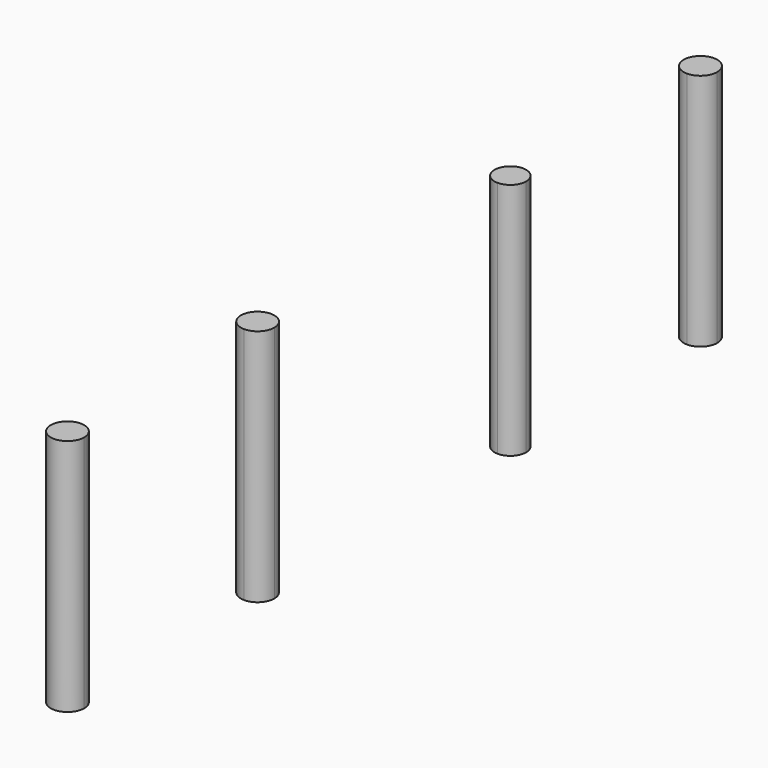
from build123d import *

# Parameters (mm, degrees)
F1_DEPTH = 25.4


with BuildPart() as f1:
    # F0 (on Top) → F1 (new body)
    with BuildSketch(Plane.XY):
        with BuildLine():
            ThreePointArc((0, 71.579503), (-1.785938, 69.793566), (0, 68.007628))
            Line((0, 68.007628), (0, 69.793566))
            Line((0, 69.793566), (0, 71.579503))
        make_face()
        with BuildLine():
            Line((0, 69.793566), (0, 68.007628))
            ThreePointArc((0, 68.007628), (1.262849, 68.530717), (1.785938, 69.793566))
            ThreePointArc((1.785938, 69.793566), (1.262849, 71.056414), (0, 71.579503))
            Line((0, 71.579503), (0, 69.793566))
        make_face()
        with BuildLine():
            ThreePointArc((0, 46.167657), (-1.682692, 44.484966), (0, 42.802274))
            Line((0, 42.802274), (0, 44.484966))
            Line((0, 44.484966), (0, 46.167657))
        make_face()
        with BuildLine():
            Line((0, 44.484966), (0, 42.802274))
            ThreePointArc((0, 42.802274), (1.189843, 43.295123), (1.682692, 44.484966))
            ThreePointArc((1.682692, 44.484966), (1.189843, 45.674808), (0, 46.167657))
            Line((0, 46.167657), (0, 44.484966))
        make_face()
        with BuildLine():
            ThreePointArc((0, 12.620666), (-1.778, 10.842666), (0, 9.064666))
            Line((0, 9.064666), (0, 10.842666))
            Line((0, 10.842666), (0, 12.620666))
        make_face()
        with BuildLine():
            Line((0, 10.842666), (0, 9.064666))
            ThreePointArc((0, 9.064666), (1.257236, 9.58543), (1.778, 10.842666))
            ThreePointArc((1.778, 10.842666), (1.257236, 12.099902), (0, 12.620666))
            Line((0, 12.620666), (0, 10.842666))
        make_face()
        with BuildLine():
            ThreePointArc((1.778, -14.465934), (1.257236, -13.208698), (0, -12.687934))
            ThreePointArc((0, -12.687934), (-1.257236, -15.72317), (1.778, -14.465934))
        make_face()
    extrude(amount=F1_DEPTH)


solid = f1.part
